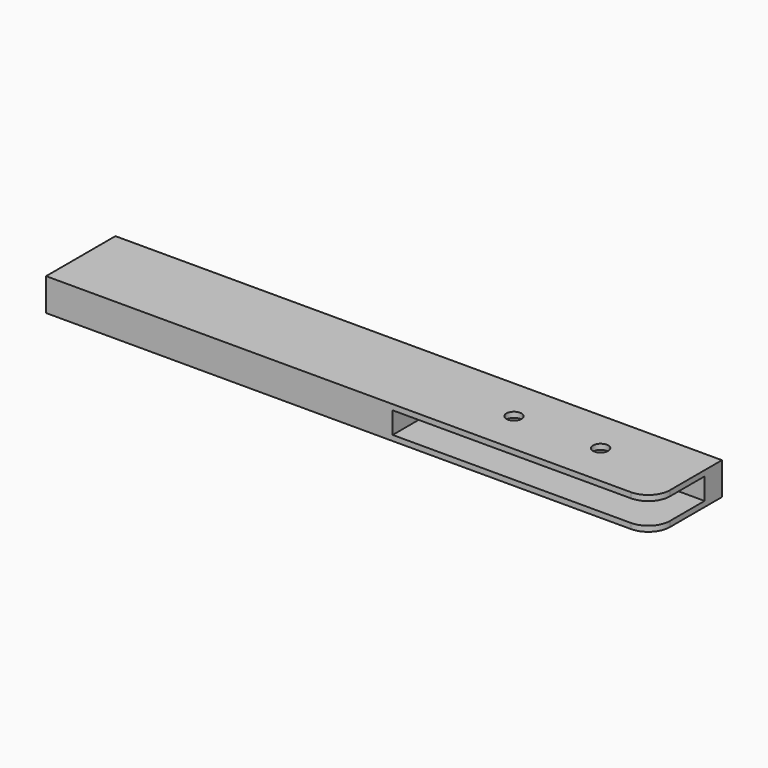
from build123d import *

# Parameters (mm, degrees)
F1_DEPTH = 15
F0_W     = 120
F0_H     = 30
F2_DEPTH = 2.5
F3_W     = 120
F3_H     = 2.5
F4_DEPTH = 30
F5_R     = 10
F6_R     = 3.5
F7_DEPTH = 25


with BuildPart() as f1:
    # F0 (on Top) → F1 (new body)
    with BuildSketch(Plane.XY):
        Polygon((159.068721, 67.520804), (-120.931279, 67.520804), (-120.931279, 27.520804), (39.068721, 27.520804), (39.068721, 57.520804), (159.068721, 57.520804), align=None)
    extrude(amount=F1_DEPTH)

    # F0 (on Top) → F2 (join)
    with BuildSketch(Plane.XY):
        with Locations((99.068721, 42.520804)):
            Rectangle(F0_W, F0_H)
    extrude(amount=F2_DEPTH)

    # F3 (on face) → F4 (join)
    with BuildSketch(Plane.XZ.offset(-57.520804)):
        with Locations((99.068721, 13.75)):
            Rectangle(F3_W, F3_H)
    extrude(amount=F4_DEPTH)

    # F5
    f5_edges = [f1.edges().sort_by_distance(p)[0] for p in [
        (159.068721, 27.520804, 13.75),
        (159.068721, 27.520804, 1.25),
    ]]
    fillet(f5_edges, radius=F5_R)

    # F6 (on face) → F7 (cut)
    with BuildSketch(Plane.XY.offset(15)):
        with Locations((79.068721, 47.520804)):
            Circle(F6_R)
        with Locations((119.068721, 47.520804)):
            Circle(F6_R)
    extrude(amount=-F7_DEPTH, mode=Mode.SUBTRACT)


solid = f1.part
